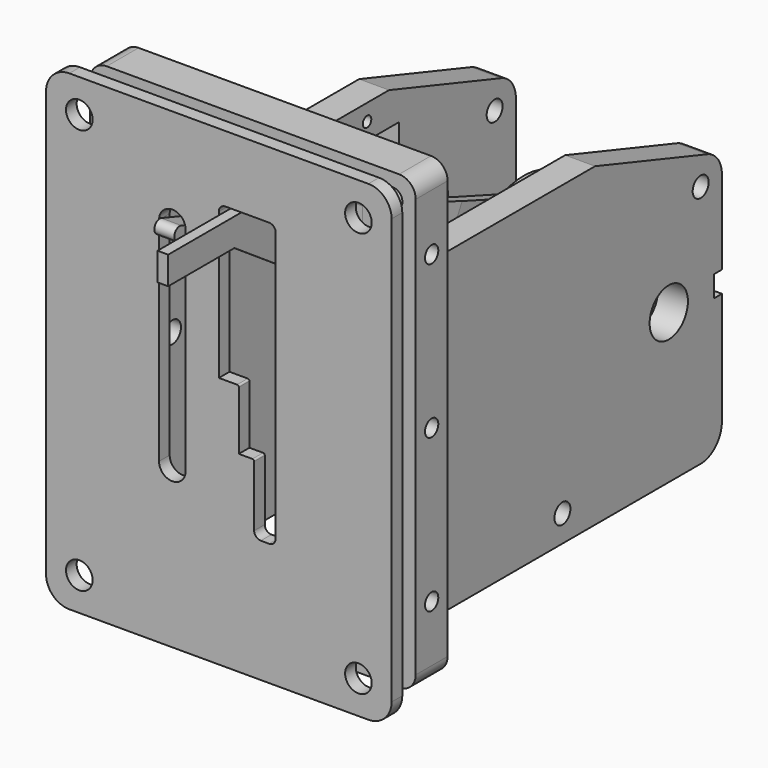
from build123d import *

# Parameters (mm, degrees)
SKETCH002_R        = 2
PAD003_DEPTH       = 2
SKETCH003_W        = 25.171653
SKETCH003_H        = 120.852789
PAD004_DEPTH       = 15
PAD004_DEPTH_BACK  = 15
SKETCH001_R        = 4
PAD002_DEPTH       = 6.5
SKETCH004_R        = 0.8
SKETCH004_W        = 12
SKETCH004_H        = 23
PAD005_DEPTH       = 4.5
SKETCH_R           = 1.6
SKETCH_R_2         = 1.5
PAD_DEPTH          = 4.5
SKETCH005_R        = 3.6
SKETCH005_W        = 1.5
SKETCH005_H        = 3.2
PAD006_DEPTH       = 4.5
CLONE2D_R          = 1.6
CLONE2D_R_2        = 1.5
PAD001_DEPTH       = 4.5
SKETCH007_R        = 1.5
SKETCH007_W        = 35.5
SKETCH007_H        = 56
PAD007_DEPTH       = 6
SKETCH009_R        = 1.25
POCKET_DEPTH       = 49.001
SKETCH015_R        = 11
SKETCH015_R_2      = 1
PAD012_DEPTH       = 2
PAD013_DEPTH       = 1.5
PAD013_DEPTH_BACK  = 1.5
SKETCH019_R        = 2.5
POCKET003_DEPTH    = 2
SKETCH020_R        = 1.1
POCKET004_DEPTH    = 1
SPHERE_PITCH_ANGLE = 90
SKETCH017_R        = 3
POCKET002_DEPTH    = 4.910394
SKETCH011_R        = 11
SKETCH011_R_2      = 1
PAD009_DEPTH       = 1
SKETCH010_R        = 11
PAD008_DEPTH       = 5
PAD011_DEPTH       = 12
PAD011_DEPTH_BACK  = 12
POCKET001_DEPTH    = 5.342099


with BuildPart() as pad_face_plate:
    # Sketch002 → Pad003 (new body)
    with BuildSketch(Plane.XZ.offset(62)):
        with BuildLine():
            Line((-22.5, 45), (22.5, 45))
            ThreePointArc((26, 41.5), (24.974874, 43.974874), (22.5, 45))
            Line((26, 41.5), (26, -22.5))
            ThreePointArc((22.5, -26), (24.974874, -24.974874), (26, -22.5))
            Line((22.5, -26), (-22.5, -26))
            ThreePointArc((-26, -22.5), (-24.974874, -24.974874), (-22.5, -26))
            Line((-26, -22.5), (-26, 41.5))
            ThreePointArc((-22.5, 45), (-24.974874, 43.974874), (-26, 41.5))
        make_face()
        with Locations((-21, 40)):
            Circle(SKETCH002_R, mode=Mode.SUBTRACT)
        with Locations((21, 40)):
            Circle(SKETCH002_R, mode=Mode.SUBTRACT)
        with Locations((21, -21)):
            Circle(SKETCH002_R, mode=Mode.SUBTRACT)
        with Locations((-21, -21)):
            Circle(SKETCH002_R, mode=Mode.SUBTRACT)
        with BuildLine():
            ThreePointArc((-5, 30), (-7, 32), (-9, 30))
            Line((-9, 30), (-9, -2))
            ThreePointArc((-9, -2), (-7, -4), (-5, -2))
            Line((-5, 30), (-5, -2))
        make_face(mode=Mode.SUBTRACT)
        with BuildLine():
            Line((1, 35), (7.555, 35))
            ThreePointArc((8.555, 34), (8.262107, 34.707107), (7.555, 35))
            Line((8.555, 34), (8.555, -6.542))
            ThreePointArc((7.555, -7.542), (8.262107, -7.249107), (8.555, -6.542))
            Line((7.555, -7.542), (6.313, -7.542))
            ThreePointArc((5.313, -6.542), (5.605893, -7.249107), (6.313, -7.542))
            Line((5.313, -6.542), (5.313, 2.633))
            ThreePointArc((5.313, 2.633), (5.239777, 2.809777), (5.063, 2.883))
            Line((5.063, 2.883), (3, 2.883))
            Line((3, 2.883), (3, 11.719))
            ThreePointArc((3, 11.719), (2.926777, 11.895777), (2.75, 11.969))
            Line((2.75, 11.969), (0, 11.969))
            Line((0, 11.969), (0, 34))
            ThreePointArc((1, 35), (0.292893, 34.707107), (0, 34))
        make_face(mode=Mode.SUBTRACT)
    extrude(amount=PAD003_DEPTH)


with BuildPart() as pad_lever_cut:
    # Sketch003 → Pad004 (new body, two sides)
    with BuildSketch(Plane(origin=(0, 0, 0), x_dir=(1, 0, 0), z_dir=(0, 0.45399, 0.891007))) as pad004_sk:
        with Locations((4.435457, -32.598744)):
            Rectangle(SKETCH003_W, SKETCH003_H)
        Polygon((1.5, 18.789308), (1.5, -30), (0, -52), (0, -87.07871), (1.6, -87.07871), (1.6, -52), (3.1, -30), (3.1, -11), (6.5, -11), (6.5, 18.789308), align=None, mode=Mode.SUBTRACT)
    extrude(amount=PAD004_DEPTH)
    extrude(pad004_sk.sketch, amount=-PAD004_DEPTH_BACK)


with BuildPart() as cut_lever:
    # Sketch001 → Pad002 (new body)
    with BuildSketch(Plane(origin=(0, 0, 0), x_dir=(0, -1, 0), z_dir=(-1, 0, 0))):
        with BuildLine():
            ThreePointArc((-3.762223, 10.336618), (-9.80001, -4.995979), (6.154997, -9.116798))
            Line((6.154997, -9.116798), (64.321987, 30.153019))
            Line((64.321987, 30.153019), (76.787349, 30.153019))
            Line((76.787349, 30.153019), (76.787349, 34.340299))
            Line((62.187349, 34.340299), (76.787349, 34.340299))
            Line((-3.762223, 10.336618), (62.187349, 34.340299))
        make_face()
        Circle(SKETCH001_R, mode=Mode.SUBTRACT)
    extrude(amount=-PAD002_DEPTH)

    # Cut: cut Pad (lever cut)
    add(pad_lever_cut.part, mode=Mode.SUBTRACT)


with BuildPart() as cut_lever_1:
    # Cut placement: moved
    add(cut_lever.part.moved(Location((1, 0, 0))))


with BuildPart() as pad_servo:
    # Sketch004 → Pad005 (new body)
    with BuildSketch(Plane(origin=(-19, 0, 0), x_dir=(0, -1, 0), z_dir=(-1, 0, 0))):
        with Locations((18, 22.5)):
            Circle(SKETCH004_R)
        with Locations((18, -5.5)):
            Circle(SKETCH004_R)
        with Locations((18, 8.5)):
            Rectangle(SKETCH004_W, SKETCH004_H)
    extrude(amount=-PAD005_DEPTH)


with BuildPart() as cut_left_bracket:
    # Sketch → Pad (new body)
    with BuildSketch(Plane(origin=(-19, 0, 0), x_dir=(0, -1, 0), z_dir=(-1, 0, 0))):
        with BuildLine():
            Line((-10, 14.202968), (-10, -18.5))
            ThreePointArc((-10, -18.5), (-8.828427, -21.328427), (-6, -22.5))
            Line((51.6, -22.5), (-6, -22.5))
            Line((51.6, -18.5), (51.6, -22.5))
            Line((57.6, -18.5), (51.6, -18.5))
            Line((57.6, 37.5), (57.6, -18.5))
            Line((57.6, 37.5), (51.6, 37.5))
            Line((51.6, 37.5), (46, 35.644687))
            Line((46, 35.644687), (46, 25))
            Line((46, 25), (13.870516, 25))
            Line((-7.257994, 18), (13.870516, 25))
            ThreePointArc((-7.257994, 18), (-9.242837, 16.544765), (-10, 14.202968))
        make_face()
        with Locations((54.602099, 32.497618)):
            Circle(SKETCH_R, mode=Mode.SUBTRACT)
        with Locations((54.6, -13.498877)):
            Circle(SKETCH_R, mode=Mode.SUBTRACT)
        with Locations((54.602099, 9.499371)):
            Circle(SKETCH_R, mode=Mode.SUBTRACT)
        with Locations((-6, 14.202968)):
            Circle(SKETCH_R_2, mode=Mode.SUBTRACT)
        with Locations((20, -18.5)):
            Circle(SKETCH_R_2, mode=Mode.SUBTRACT)
    extrude(amount=-PAD_DEPTH)

    # Cut001: cut Pad (servo)
    add(pad_servo.part, mode=Mode.SUBTRACT)


with BuildPart() as pad_pot:
    # Sketch005 → Pad006 (new body)
    with BuildSketch(Plane.YZ.offset(16.5)):
        Circle(SKETCH005_R)
        with Locations((9.25, 0)):
            Rectangle(SKETCH005_W, SKETCH005_H)
    extrude(amount=-PAD006_DEPTH)


with BuildPart() as cut_right_bracket:
    # Clone2D → Pad001 (new body)
    with BuildSketch(Plane(origin=(16.5, 0, 0), x_dir=(0, -1, 0), z_dir=(-1, 0, 0))):
        with BuildLine():
            ThreePointArc((-7.257994, 18), (-9.242837, 16.544765), (-10, 14.202968))
            Line((-10, 14.202968), (-10, -18.5))
            ThreePointArc((-10, -18.5), (-8.828427, -21.328427), (-6, -22.5))
            Line((-6, -22.5), (51.6, -22.5))
            Line((51.6, -22.5), (51.6, -18.5))
            Line((51.6, -18.5), (57.6, -18.5))
            Line((57.6, -18.5), (57.6, 37.5))
            Line((57.6, 37.5), (51.6, 37.5))
            Line((51.6, 37.5), (46, 35.644687))
            Line((46, 35.644687), (46, 25))
            Line((46, 25), (13.870516, 25))
            Line((13.870516, 25), (-7.257994, 18))
        make_face()
        with Locations((54.602099, 32.497618)):
            Circle(CLONE2D_R, mode=Mode.SUBTRACT)
        with Locations((54.6, -13.498877)):
            Circle(CLONE2D_R, mode=Mode.SUBTRACT)
        with Locations((54.602099, 9.499371)):
            Circle(CLONE2D_R, mode=Mode.SUBTRACT)
        with Locations((-6, 14.202968)):
            Circle(CLONE2D_R_2, mode=Mode.SUBTRACT)
        with Locations((20, -18.5)):
            Circle(CLONE2D_R_2, mode=Mode.SUBTRACT)
    extrude(amount=PAD001_DEPTH)

    # Cut002: cut Pad (pot)
    add(pad_pot.part, mode=Mode.SUBTRACT)


with BuildPart() as pocket_frame_bracket_holes:
    # Sketch007 → Pad007 (new body)
    with BuildSketch(Plane.XZ.offset(57.6)):
        with BuildLine():
            Line((-22, 43.5), (22, 43.5))
            ThreePointArc((24.5, 41), (23.767767, 42.767767), (22, 43.5))
            Line((24.5, 41), (24.5, -22))
            ThreePointArc((22, -24.5), (23.767767, -23.767767), (24.5, -22))
            Line((22, -24.5), (-22, -24.5))
            ThreePointArc((-24.5, -22), (-23.767767, -23.767767), (-22, -24.5))
            Line((-24.5, -22), (-24.5, 41))
            ThreePointArc((-22, 43.5), (-23.767767, 42.767767), (-24.5, 41))
        make_face()
        with Locations((-21, 40)):
            Circle(SKETCH007_R, mode=Mode.SUBTRACT)
        with Locations((21, 40)):
            Circle(SKETCH007_R, mode=Mode.SUBTRACT)
        with Locations((21, -21)):
            Circle(SKETCH007_R, mode=Mode.SUBTRACT)
        with Locations((-21, -21)):
            Circle(SKETCH007_R, mode=Mode.SUBTRACT)
        with Locations((-1.25, 9.5)):
            Rectangle(SKETCH007_W, SKETCH007_H, mode=Mode.SUBTRACT)
    extrude(amount=-PAD007_DEPTH)

    # Sketch009 → Pocket (cut, through all)
    with BuildSketch(Plane(origin=(-24.5, -57.6, 0), x_dir=(0, 0, -1), z_dir=(-1, 0, 0))):
        with Locations((-32.5, -3)):
            Circle(SKETCH009_R)
        with Locations((-9.5, -3)):
            Circle(SKETCH009_R)
        with Locations((13.5, -3)):
            Circle(SKETCH009_R)
    extrude(amount=-POCKET_DEPTH, mode=Mode.SUBTRACT)


with BuildPart() as pad012:
    # Sketch015 → Pad012 (new body)
    with BuildSketch(Plane(origin=(-3, 0, 0), x_dir=(0, -1, 0), z_dir=(-1, 0, 0))):
        Circle(SKETCH015_R)
        Circle(SKETCH015_R_2, mode=Mode.SUBTRACT)
    extrude(amount=PAD012_DEPTH)


with BuildPart() as pocket_servo_screw_hole:
    # Sketch018 → Pad013 (new body, two sides)
    with BuildSketch(Plane(origin=(-7, 0, 0), x_dir=(-0.001529, -0.999998, -0.001524), z_dir=(-0.999994, 0.001524, 0.003058))) as pad013_sk:
        with BuildLine():
            ThreePointArc((17.126778, 17.903522), (14.207992, 12.726943), (19.659183, 10.360342))
            Line((19.659183, 10.360342), (45.810323, 22.281663))
            Line((64.770363, 28.64695), (45.810323, 22.281663))
            ThreePointArc((64.770363, 28.64695), (65.400101, 29.913216), (64.133835, 30.542954))
            Line((45.173794, 24.177667), (64.133835, 30.542954))
            Line((17.126778, 17.903522), (45.173794, 24.177667))
        make_face()
    extrude(amount=PAD013_DEPTH)
    extrude(pad013_sk.sketch, amount=-PAD013_DEPTH_BACK)

    # Sketch019 → Pocket003 (cut)
    with BuildSketch(Plane(origin=(-8.499991, 0.002286, 0.004586), x_dir=(-0.001529, -0.999998, -0.001524), z_dir=(-0.999994, 0.001524, 0.003058))):
        with Locations((18, 14)):
            Circle(SKETCH019_R)
    extrude(amount=-POCKET003_DEPTH, mode=Mode.SUBTRACT)

    # Sketch020 → Pocket004 (cut)
    with BuildSketch(Plane(origin=(-6.500003, -0.000762, -0.001529), x_dir=(-0.001529, -0.999998, -0.001524), z_dir=(-0.999994, 0.001524, 0.003058))):
        with Locations((18, 14)):
            Circle(SKETCH020_R)
    extrude(amount=-POCKET004_DEPTH, mode=Mode.SUBTRACT)


with BuildPart() as pocket_pot_shaft:
    # Sphere → Sphere (revolve)
    with BuildSketch(Plane.XZ):
        with BuildLine():
            ThreePointArc((0, -3.9), (3.094078, -2.37417), (3.767111, 1.009394))
            Line((3.767111, 1.009394), (0, 1.009394))
            Line((0, 1.009394), (0, -3.9))
        make_face()
    revolve(axis=Axis((0, 0, 0), (0, 0, 1)))


with BuildPart() as pocket_pot_shaft_1:
    # Sphere pitch: moved
    add(pocket_pot_shaft.part.rotate(Axis((0, 0, 0), (0, 1, 0)), SPHERE_PITCH_ANGLE))


with BuildPart() as pocket_pot_shaft_2:
    # Sphere placement: moved
    add(pocket_pot_shaft_1.part)

    # Sketch017 → Pocket002 (cut, through all)
    with BuildSketch(Plane(origin=(1.009394, 0, 0), x_dir=(0, 0, -1), z_dir=(1, 0, 0))):
        Circle(SKETCH017_R)
    extrude(amount=-POCKET002_DEPTH, mode=Mode.SUBTRACT)


with BuildPart() as pad009:
    # Sketch011 → Pad009 (new body)
    with BuildSketch(Plane(origin=(-5, 0, 0), x_dir=(0, -1, 0), z_dir=(-1, 0, 0))):
        Circle(SKETCH011_R)
        Circle(SKETCH011_R_2, mode=Mode.SUBTRACT)
    extrude(amount=PAD009_DEPTH)


with BuildPart() as fusion:
    # Sketch010 → Pad008 (new body)
    with BuildSketch(Plane(origin=(0, 0, 0), x_dir=(0, -1, 0), z_dir=(-1, 0, 0))):
        Circle(SKETCH010_R)
        with BuildLine():
            ThreePointArc((2.973214, 0.4), (0, 3), (-2.973214, 0.4))
            Line((-2.973214, 0.4), (-1.973214, 0.4))
            Line((-1.973214, 0.4), (-1.973214, -0.4))
            Line((-1.973214, -0.4), (-2.973214, -0.4))
            ThreePointArc((-2.973214, -0.4), (0, -3), (2.973214, -0.4))
            Line((1.973214, -0.4), (2.973214, -0.4))
            Line((1.973214, 0.4), (1.973214, -0.4))
            Line((2.973214, 0.4), (1.973214, 0.4))
        make_face(mode=Mode.SUBTRACT)
    extrude(amount=PAD008_DEPTH)

    # Fusion: union Pad009
    add(pad009.part)


with BuildPart() as fusion_lever_mount:
    # Sketch014 → Pad011 (new body, two sides)
    with BuildSketch(Plane.XY) as pad011_sk:
        with BuildLine():
            ThreePointArc((0, 0), (-0.593768, 5.906361), (-2.351308, 11.576344))
            Line((-2.351308, 11.576344), (-5.341099, 11.576344))
            Line((-5.341099, 11.576344), (-5.341099, -11.407174))
            Line((-5.341099, -11.407174), (0, -11.407174))
            Line((0, -11.407174), (0, 0))
        make_face()
    extrude(amount=PAD011_DEPTH)
    extrude(pad011_sk.sketch, amount=-PAD011_DEPTH_BACK)

    # Common: intersect Fusion
    add(fusion.part, mode=Mode.INTERSECT)

    # Sketch016 → Pocket001 (cut, through all)
    with BuildSketch(Plane(origin=(-5.341099, 0, 0), x_dir=(0, -1, 0), z_dir=(-1, 0, 0))):
        with BuildLine():
            ThreePointArc((6, 1.65), (4.35, 0), (6, -1.65))
            Line((6, -1.65), (8, -1.65))
            ThreePointArc((8, -1.65), (9.65, 0), (8, 1.65))
            Line((6, 1.65), (8, 1.65))
        make_face()
        with BuildLine():
            ThreePointArc((-8, 1.65), (-9.65, 0), (-8, -1.65))
            Line((-8, -1.65), (-6, -1.65))
            ThreePointArc((-6, -1.65), (-4.35, 0), (-6, 1.65))
            Line((-8, 1.65), (-6, 1.65))
        make_face()
    extrude(amount=-POCKET001_DEPTH, mode=Mode.SUBTRACT)

    # Fusion001: union Pocket (pot shaft)
    add(pocket_pot_shaft_2.part)


solid = Compound([pad_face_plate.part, cut_lever_1.part, cut_left_bracket.part, cut_right_bracket.part, pocket_frame_bracket_holes.part, pad012.part, pocket_servo_screw_hole.part, fusion_lever_mount.part])
